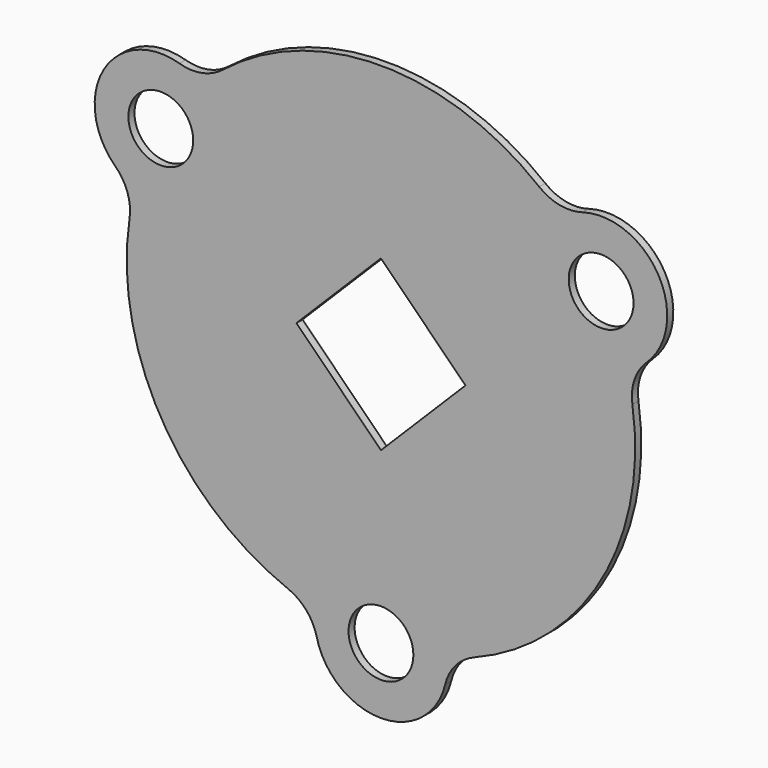
from build123d import *

# Parameters (mm, degrees)
F0_R     = 12.954
F1_DEPTH = 3.048


with BuildPart() as f1:
    # F0 (on Front) → F1 (new body)
    with BuildSketch(Plane.XZ):
        with BuildLine():
            ThreePointArc((-106.193025, 31.658717), (-101.305385, 24.045339), (-100.481279, 15.035712))
            ThreePointArc((-100.481279, 15.035712), (-87.988181, -50.8), (-37.219331, -94.537196))
            ThreePointArc((-37.219331, -94.537196), (-29.828818, -99.755707), (-25.679259, -107.795216))
            ThreePointArc((-25.679259, -107.795216), (0, -128.016), (25.679259, -107.795216))
            ThreePointArc((25.679259, -107.795216), (29.828818, -99.755707), (37.219331, -94.537196))
            ThreePointArc((37.219331, -94.537196), (87.988181, -50.8), (100.481279, 15.035712))
            ThreePointArc((100.481279, 15.035712), (101.305385, 24.045339), (106.193025, 31.658717))
            ThreePointArc((106.193025, 31.658717), (110.865108, 64.008), (80.513766, 76.136499))
            ThreePointArc((80.513766, 76.136499), (71.476567, 75.710368), (63.261948, 79.501484))
            ThreePointArc((63.261948, 79.501484), (0, 101.6), (-63.261948, 79.501484))
            ThreePointArc((-63.261948, 79.501484), (-71.476567, 75.710368), (-80.513766, 76.136499))
            ThreePointArc((-80.513766, 76.136499), (-110.865108, 64.008), (-106.193025, 31.658717))
        make_face()
        with Locations((0, -101.6)):
            Circle(F0_R, mode=Mode.SUBTRACT)
        with Locations((-87.988181, 50.8)):
            Circle(F0_R, mode=Mode.SUBTRACT)
        Polygon((-33.765763, 0), (0, 33.765763), (33.765763, 0), (0, -33.765763), align=None, mode=Mode.SUBTRACT)
        with Locations((87.988181, 50.8)):
            Circle(F0_R, mode=Mode.SUBTRACT)
    extrude(amount=F1_DEPTH)


solid = f1.part
